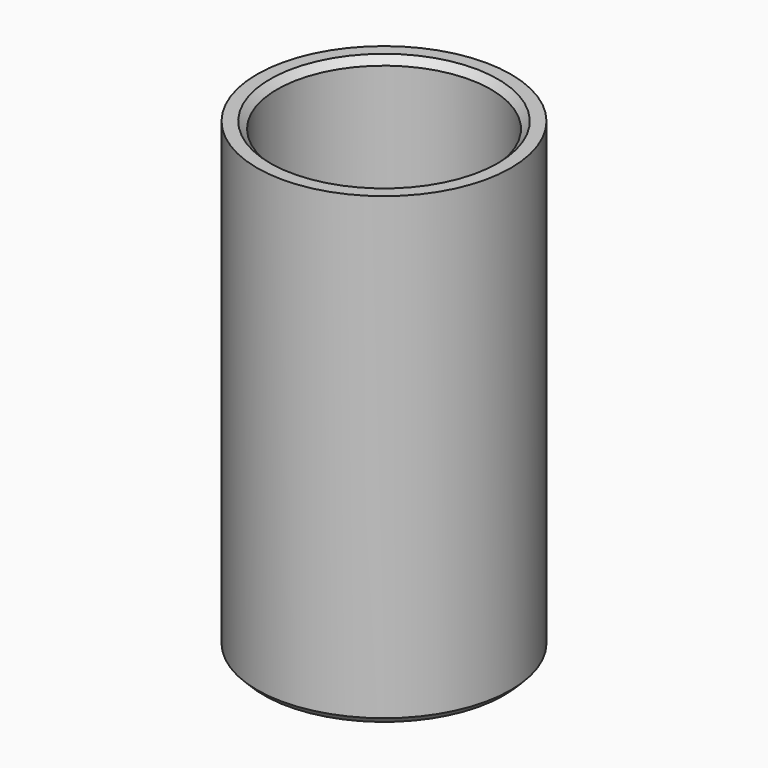
from build123d import *

# Parameters (mm, degrees)
F0_R     = 18.5
F1_DEPTH = 68
F2_R     = 15.6
F3_DEPTH = 68.001
F4_SIZE  = 1
F5_SIZE  = 1


with BuildPart() as f1:
    # F0 (on Top) → F1 (new body)
    with BuildSketch(Plane.XY):
        Circle(F0_R)
    extrude(amount=F1_DEPTH)

    # F2 (on Top) → F3 (cut, through all)
    with BuildSketch(Plane.XY):
        Circle(F2_R)
    extrude(amount=F3_DEPTH, mode=Mode.SUBTRACT)

    # F4
    f4_edges = [f1.edges().sort_by_distance(p)[0] for p in [
        (-18.5, 0, 0),
    ]]
    chamfer(f4_edges, length=F4_SIZE)

    # F5
    f5_edges = [f1.edges().sort_by_distance(p)[0] for p in [
        (-15.6, 0, 68),
    ]]
    chamfer(f5_edges, length=F5_SIZE)


solid = f1.part
